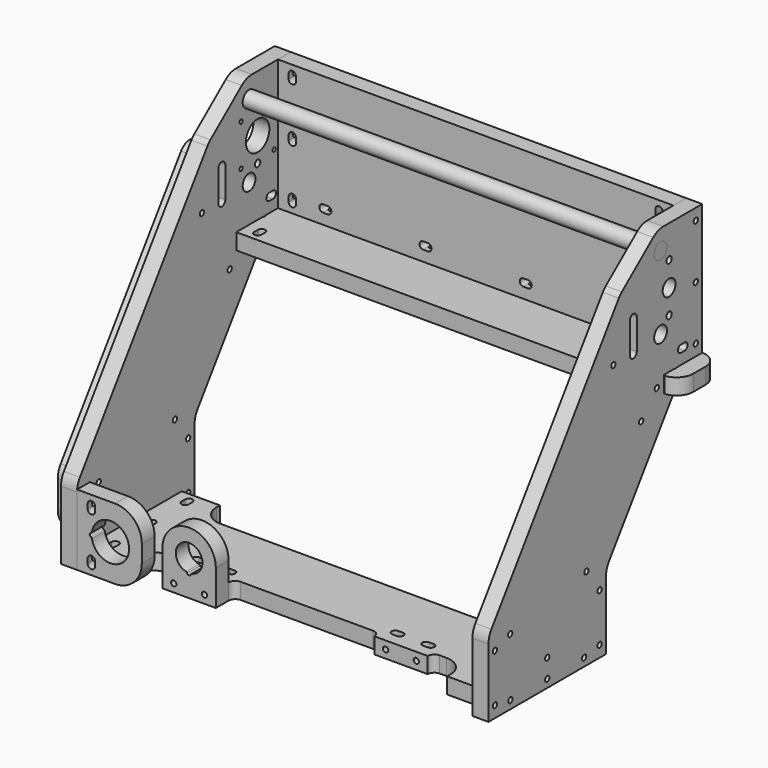
from build123d import *

# Parameters (mm, degrees)
F0_W      = 296
F0_H      = 98
F1_DEPTH  = 12
F3_DEPTH  = 12
F4_R      = 5.975
F4_R_2    = 11
F4_R_3    = 1.5
F4_R_4    = 2.5
F5_DEPTH  = 25
F6_R      = 6
F7_DEPTH  = 320
F8_R      = 5.975
F8_R_2    = 2.5
F8_R_3    = 6
F9_DEPTH  = 12
F11_DEPTH = 12
F13_DEPTH = 12
F15_DEPTH = 25
F17_DEPTH = 12
F18_R     = 2
F19_DEPTH = 21
F21_DEPTH = 25
F22_R     = 2
F23_DEPTH = 21
F24_SIZE2 = 35
F24_SIZE  = 15
F25_SIZE2 = 15
F25_SIZE  = 35
F26_R     = 15
F26_2_R   = 15
F27_R     = 2
F28_DEPTH = 21
F30_DEPTH = 12
F31_R     = 15
F32_R     = 2
F33_DEPTH = 344.501
F34_R     = 2
F35_DEPTH = 12
F36_R     = 2
F37_DEPTH = 10
F38_R     = 1


with BuildPart() as f1:
    # F0 (on Front) → F1 (new body)
    with BuildSketch(Plane.XZ):
        with Locations((0, 49)):
            Rectangle(F0_W, F0_H)
    extrude(amount=F1_DEPTH)


with BuildPart() as f3:
    # F2 (on face) → F3 (new body)
    with BuildSketch(Plane(origin=(-148, 0, 0), x_dir=(0, -1, 0), z_dir=(-1, 0, 0))):
        Polygon((56.6998794181, 98), (0, 98), (0, 0), (24, 0), (24, -12), (90, -105.919646507), (90, -162), (200, -162), (200, -105.919646507), align=None)
    extrude(amount=F3_DEPTH)

    # F4 (on face) → F5 (cut)
    with BuildSketch(Plane.YZ.offset(-148)):
        with Locations((-39, 28)):
            Circle(F4_R)
        with Locations((-39, 83)):
            Circle(F4_R)
        with Locations((-31, 55.5)):
            Circle(F4_R_2)
        with Locations((-46.5, 71)):
            Circle(F4_R_3)
        with Locations((-46.5, 40)):
            Circle(F4_R_3)
        with Locations((-15.5, 40)):
            Circle(F4_R_3)
        with Locations((-15.5, 71)):
            Circle(F4_R_3)
        with Locations((-31, 73.75)):
            Circle(F4_R_4)
        with Locations((-31, 37.25)):
            Circle(F4_R_4)
    extrude(amount=-F5_DEPTH, mode=Mode.SUBTRACT)


with BuildPart() as f7:
    # F6 (on face) → F7 (new body)
    with BuildSketch(Plane(origin=(-160, 0, 0), x_dir=(0, -1, 0), z_dir=(-1, 0, 0))):
        with Locations((39, 83)):
            Circle(F6_R)
    extrude(amount=-F7_DEPTH)


with BuildPart() as f9:
    # F8 (on face) → F9 (new body)
    with BuildSketch(Plane.YZ.offset(148)):
        Polygon((-90, -162), (-90, -105.919646507), (-24, -12), (-24, 0), (0, 0), (0, 98), (-56.6998794181, 98), (-200, -105.919646507), (-200, -162), align=None)
        with Locations((-39, 28)):
            Circle(F8_R, mode=Mode.SUBTRACT)
        with Locations((-31, 37.25)):
            Circle(F8_R_2, mode=Mode.SUBTRACT)
        with Locations((-31, 55.5)):
            Circle(F8_R_3, mode=Mode.SUBTRACT)
        with Locations((-31, 73.75)):
            Circle(F8_R_2, mode=Mode.SUBTRACT)
        with Locations((-39, 83)):
            Circle(F8_R, mode=Mode.SUBTRACT)
    extrude(amount=F9_DEPTH)


with BuildPart() as f11:
    # F10 (on face) → F11 (new body)
    with BuildSketch(Plane.XZ.offset(200)):
        with BuildLine():
            Line((-148, -109), (-148, -162))
            Line((-148, -162), (-119.5, -162))
            ThreePointArc((-119.5, -162), (-105.3578643763, -156.1421356237), (-99.5, -142))
            Line((-99.5, -142), (-99.5, -129))
            ThreePointArc((-99.5, -129), (-105.3578643763, -114.8578643763), (-119.5, -109))
            Line((-119.5, -109), (-148, -109))
        make_face()
        with BuildLine():
            ThreePointArc((-136.7997078464, -133.2934895528), (-109.025, -135.5), (-136.7997078464, -137.7065104472))
            ThreePointArc((-136.7997078464, -137.7065104472), (-137.0218329376, -137.2207641448), (-137.4622987478, -136.9186401695))
            ThreePointArc((-137.4622987478, -136.9186401695), (-138.475, -135.5), (-137.4622987478, -134.0813598305))
            ThreePointArc((-137.4622987478, -134.0813598305), (-137.0218329376, -133.7792358552), (-136.7997078464, -133.2934895528))
        make_face(mode=Mode.SUBTRACT)
    extrude(amount=-F11_DEPTH)

    # F14 (on face) → F15 (cut)
    with BuildSketch(Plane.XZ.offset(200)):
        with BuildLine():
            ThreePointArc((-134.5, -115.75), (-137.25, -113), (-140, -115.75))
            Line((-140, -115.75), (-140, -119.25))
            ThreePointArc((-140, -119.25), (-137.25, -122), (-134.5, -119.25))
            Line((-134.5, -119.25), (-134.5, -115.75))
        make_face()
        with BuildLine():
            ThreePointArc((-140, -155.25), (-137.25, -158), (-134.5, -155.25))
            Line((-134.5, -155.25), (-134.5, -151.75))
            ThreePointArc((-134.5, -151.75), (-137.25, -149), (-140, -151.75))
            Line((-140, -151.75), (-140, -155.25))
        make_face()
    extrude(amount=-F15_DEPTH, mode=Mode.SUBTRACT)


with BuildPart() as f13:
    # F12 (on face) → F13 (new body)
    with BuildSketch(Plane(origin=(0, 0, -162), x_dir=(1, 0, 0), z_dir=(0, 0, -1))):
        with BuildLine():
            Line((-99.5, 170), (-104.5, 170))
            ThreePointArc((-104.5, 170), (-115.1066017178, 174.3933982822), (-119.5, 185))
            Line((-119.5, 185), (-119.5, 188))
            Line((-119.5, 188), (-148, 188))
            Line((-148, 188), (-148, 145))
            Line((-148, 145), (-148, 102))
            Line((-148, 102), (-119.5, 102))
            Line((-119.5, 102), (-119.5, 105))
            ThreePointArc((-119.5, 105), (-115.1066017178, 115.6066017178), (-104.5, 120))
            Line((-104.5, 120), (0, 120))
            Line((0, 120), (104.5, 120))
            ThreePointArc((104.5, 120), (115.1066017178, 115.6066017178), (119.5, 105))
            Line((119.5, 105), (119.5, 102))
            Line((119.5, 102), (148, 102))
            Line((148, 102), (148, 145))
            Line((148, 145), (148, 188))
            Line((148, 188), (119.5, 188))
            Line((119.5, 188), (119.5, 185))
            ThreePointArc((119.5, 185), (115.1066017178, 174.3933982822), (104.5, 170))
            Line((104.5, 170), (99.5, 170))
            ThreePointArc((99.5, 170), (95.9644660941, 171.4644660941), (94.5, 175))
            Line((94.5, 175), (54.5, 175))
            ThreePointArc((54.5, 175), (53.0355339059, 171.4644660941), (49.5, 170))
            Line((49.5, 170), (0, 170))
            Line((0, 170), (-49.5, 170))
            ThreePointArc((-49.5, 170), (-53.0355339059, 171.4644660941), (-54.5, 175))
            Line((-54.5, 175), (-94.5, 175))
            ThreePointArc((-94.5, 175), (-95.9644660941, 171.4644660941), (-99.5, 170))
        make_face()
        with BuildLine():
            Line((-134.5, 112.25), (-134.5, 108.75))
            ThreePointArc((-134.5, 108.75), (-137.25, 106), (-140, 108.75))
            Line((-140, 108.75), (-140, 112.25))
            ThreePointArc((-140, 112.25), (-137.25, 115), (-134.5, 112.25))
        make_face(mode=Mode.SUBTRACT)
        with BuildLine():
            ThreePointArc((140, 108.75), (137.25, 106), (134.5, 108.75))
            Line((134.5, 108.75), (134.5, 112.25))
            ThreePointArc((134.5, 112.25), (137.25, 115), (140, 112.25))
            Line((140, 112.25), (140, 108.75))
        make_face(mode=Mode.SUBTRACT)
        with BuildLine():
            Line((-134.5, 146.75), (-134.5, 143.25))
            ThreePointArc((-134.5, 143.25), (-137.25, 140.5), (-140, 143.25))
            Line((-140, 143.25), (-140, 146.75))
            ThreePointArc((-140, 146.75), (-137.25, 149.5), (-134.5, 146.75))
        make_face(mode=Mode.SUBTRACT)
        with BuildLine():
            Line((-84.25, 161), (-87.75, 161))
            ThreePointArc((-87.75, 161), (-90.5, 163.75), (-87.75, 166.5))
            Line((-87.75, 166.5), (-84.25, 166.5))
            ThreePointArc((-84.25, 166.5), (-81.5, 163.75), (-84.25, 161))
        make_face(mode=Mode.SUBTRACT)
        with BuildLine():
            ThreePointArc((-64.75, 161), (-67.5, 163.75), (-64.75, 166.5))
            Line((-64.75, 166.5), (-61.25, 166.5))
            ThreePointArc((-61.25, 166.5), (-58.5, 163.75), (-61.25, 161))
            Line((-61.25, 161), (-64.75, 161))
        make_face(mode=Mode.SUBTRACT)
        with BuildLine():
            ThreePointArc((-134.5, 177.75), (-137.25, 175), (-140, 177.75))
            Line((-140, 177.75), (-140, 181.25))
            ThreePointArc((-140, 181.25), (-137.25, 184), (-134.5, 181.25))
            Line((-134.5, 181.25), (-134.5, 177.75))
        make_face(mode=Mode.SUBTRACT)
        with BuildLine():
            ThreePointArc((61.25, 161), (58.5, 163.75), (61.25, 166.5))
            Line((61.25, 166.5), (64.75, 166.5))
            ThreePointArc((64.75, 166.5), (67.5, 163.75), (64.75, 161))
            Line((64.75, 161), (61.25, 161))
        make_face(mode=Mode.SUBTRACT)
        with BuildLine():
            Line((140, 146.75), (140, 143.25))
            ThreePointArc((140, 143.25), (137.25, 140.5), (134.5, 143.25))
            Line((134.5, 143.25), (134.5, 146.75))
            ThreePointArc((134.5, 146.75), (137.25, 149.5), (140, 146.75))
        make_face(mode=Mode.SUBTRACT)
        with BuildLine():
            Line((84.25, 166.5), (87.75, 166.5))
            ThreePointArc((87.75, 166.5), (90.5, 163.75), (87.75, 161))
            Line((87.75, 161), (84.25, 161))
            ThreePointArc((84.25, 161), (81.5, 163.75), (84.25, 166.5))
        make_face(mode=Mode.SUBTRACT)
        with BuildLine():
            ThreePointArc((134.5, 181.25), (137.25, 184), (140, 181.25))
            Line((140, 181.25), (140, 177.75))
            ThreePointArc((140, 177.75), (137.25, 175), (134.5, 177.75))
            Line((134.5, 177.75), (134.5, 181.25))
        make_face(mode=Mode.SUBTRACT)
    extrude(amount=-F13_DEPTH)


with BuildPart() as f17:
    # F16 (on face) → F17 (new body)
    with BuildSketch(Plane(origin=(0, 0, 0), x_dir=(1, 0, 0), z_dir=(0, 0, -1))):
        with BuildLine():
            ThreePointArc((-172.5, 12.5), (-168.8388347648, 3.6611652352), (-160, 0))
            Line((-160, 0), (160, 0))
            ThreePointArc((160, 0), (168.8388347648, 3.6611652352), (172.5, 12.5))
            Line((172.5, 12.5), (172.5, 24))
            ThreePointArc((172.5, 24), (169.2151222597, 32.4457990587), (161.0869565217, 36.452651345))
            ThreePointArc((161.0869565217, 36.452651345), (160.3243360753, 36.1936490182), (160, 35.4564392374))
            Line((160, 35.4564392374), (160, 26.1213203436))
            ThreePointArc((160, 26.1213203436), (160, 24), (157.8786796564, 24))
            Line((157.8786796564, 24), (150.1213203436, 24))
            ThreePointArc((150.1213203436, 24), (148, 24), (148, 26.1213203436))
            Line((148, 26.1213203436), (148, 51))
            Line((148, 51), (0, 51))
            Line((0, 51), (-148, 51))
            Line((-148, 51), (-148, 26.1213203436))
            ThreePointArc((-148, 26.1213203436), (-148, 24), (-150.1213203436, 24))
            Line((-150.1213203436, 24), (-157.8786796564, 24))
            ThreePointArc((-157.8786796564, 24), (-160, 24), (-160, 26.1213203436))
            Line((-160, 26.1213203436), (-160, 35.4564392374))
            ThreePointArc((-160, 35.4564392374), (-160.3243360753, 36.1936490182), (-161.0869565217, 36.452651345))
            ThreePointArc((-161.0869565217, 36.452651345), (-169.2151222597, 32.4457990587), (-172.5, 24))
            Line((-172.5, 24), (-172.5, 12.5))
        make_face()
    extrude(amount=F17_DEPTH)


with BuildPart() as f19_tool:
    # F18 (on face) → F19 (new body)
    with BuildSketch(Plane(origin=(-160, 0, 0), x_dir=(0, -1, 0), z_dir=(-1, 0, 0))):
        with Locations((194, -153.5)):
            Circle(F18_R)
        with Locations((194, -117.5)):
            Circle(F18_R)
        with Locations((96, -117.5)):
            Circle(F18_R)
        with Locations((96, -153.5)):
            Circle(F18_R)
        with Locations((179.5, -156)):
            Circle(F18_R)
        with Locations((145, -156)):
            Circle(F18_R)
        with Locations((110.5, -156)):
            Circle(F18_R)
        with Locations((6, 89.5)):
            Circle(F18_R)
        with Locations((6, 49)):
            Circle(F18_R)
        with Locations((6, 8.5)):
            Circle(F18_R)
        with BuildLine():
            ThreePointArc((16.5, 13.5), (13.75, 10.75), (16.5, 8))
            Line((16.5, 8), (20, 8))
            ThreePointArc((20, 8), (22.75, 10.75), (20, 13.5))
            Line((20, 13.5), (16.5, 13.5))
        make_face()
        with Locations((42.5, -6)):
            Circle(F18_R)
    extrude(amount=-F19_DEPTH)


with BuildPart() as f1_1:
    add(f1.part)

    # F19: cut by f19_tool
    add(f19_tool.part, mode=Mode.SUBTRACT)

    # F20 (on face) → F21 (cut)
    with BuildSketch(Plane(origin=(0, 0, 0), x_dir=(-1, 0, 0), z_dir=(0, 1, 0))):
        with BuildLine():
            ThreePointArc((140, 91.25), (137.25, 94), (134.5, 91.25))
            Line((134.5, 91.25), (134.5, 87.75))
            ThreePointArc((134.5, 87.75), (137.25, 85), (140, 87.75))
            Line((140, 87.75), (140, 91.25))
        make_face()
        with BuildLine():
            ThreePointArc((140, 50.75), (137.25, 53.5), (134.5, 50.75))
            Line((134.5, 50.75), (134.5, 47.25))
            ThreePointArc((134.5, 47.25), (137.25, 44.5), (140, 47.25))
            Line((140, 47.25), (140, 50.75))
        make_face()
        with BuildLine():
            ThreePointArc((140, 10.25), (137.25, 13), (134.5, 10.25))
            Line((134.5, 10.25), (134.5, 6.75))
            ThreePointArc((134.5, 6.75), (137.25, 4), (140, 6.75))
            Line((140, 6.75), (140, 10.25))
        make_face()
        with BuildLine():
            Line((-134.5, 87.75), (-134.5, 91.25))
            ThreePointArc((-134.5, 91.25), (-137.25, 94), (-140, 91.25))
            Line((-140, 91.25), (-140, 87.75))
            ThreePointArc((-140, 87.75), (-137.25, 85), (-134.5, 87.75))
        make_face()
        with BuildLine():
            Line((-134.5, 47.25), (-134.5, 50.75))
            ThreePointArc((-134.5, 50.75), (-137.25, 53.5), (-140, 50.75))
            Line((-140, 50.75), (-140, 47.25))
            ThreePointArc((-140, 47.25), (-137.25, 44.5), (-134.5, 47.25))
        make_face()
        with BuildLine():
            ThreePointArc((-134.5, 10.25), (-137.25, 13), (-140, 10.25))
            Line((-140, 10.25), (-140, 6.75))
            ThreePointArc((-140, 6.75), (-137.25, 4), (-134.5, 6.75))
            Line((-134.5, 6.75), (-134.5, 10.25))
        make_face()
        with BuildLine():
            ThreePointArc((-110.75, 8), (-108, 10.75), (-110.75, 13.5))
            Line((-110.75, 13.5), (-114.25, 13.5))
            ThreePointArc((-114.25, 13.5), (-117, 10.75), (-114.25, 8))
            Line((-114.25, 8), (-110.75, 8))
        make_face()
        with BuildLine():
            ThreePointArc((-39.25, 13.5), (-42, 10.75), (-39.25, 8))
            Line((-39.25, 8), (-35.75, 8))
            ThreePointArc((-35.75, 8), (-33, 10.75), (-35.75, 13.5))
            Line((-35.75, 13.5), (-39.25, 13.5))
        make_face()
        with BuildLine():
            ThreePointArc((35.75, 13.5), (33, 10.75), (35.75, 8))
            Line((35.75, 8), (39.25, 8))
            ThreePointArc((39.25, 8), (42, 10.75), (39.25, 13.5))
            Line((39.25, 13.5), (35.75, 13.5))
        make_face()
        with BuildLine():
            ThreePointArc((110.75, 13.5), (108, 10.75), (110.75, 8))
            Line((110.75, 8), (114.25, 8))
            ThreePointArc((114.25, 8), (117, 10.75), (114.25, 13.5))
            Line((114.25, 13.5), (110.75, 13.5))
        make_face()
    extrude(amount=-F21_DEPTH, mode=Mode.SUBTRACT)


with BuildPart() as f3_1:
    add(f3.part)

    # F19: cut by f19_tool
    add(f19_tool.part, mode=Mode.SUBTRACT)

    # F24
    f24_edges = [f3_1.edges().sort_by_distance(p)[0] for p in [
        (-154, -56.699879, 98),
    ]]
    f24_side = f3_1.faces().sort_by_distance((-154, -28.34994, 98))[0]
    chamfer(f24_edges, length=F24_SIZE, length2=F24_SIZE2, reference=f24_side)

    # F26
    f26_edges = [f3_1.edges().sort_by_distance(p)[0] for p in [
        (-154, -200, -105.919647),
        (-154, -90, -105.919647),
        (-154, -41.699879, 98),
        (-154, -76.823465, 69.363636),
    ]]
    fillet(f26_edges, radius=F26_R)


with BuildPart() as f11_1:
    add(f11.part)

    # F19: cut by f19_tool
    add(f19_tool.part, mode=Mode.SUBTRACT)


with BuildPart() as f13_1:
    add(f13.part)

    # F19: cut by f19_tool
    add(f19_tool.part, mode=Mode.SUBTRACT)


with BuildPart() as f17_1:
    add(f17.part)

    # F19: cut by f19_tool
    add(f19_tool.part, mode=Mode.SUBTRACT)


with BuildPart() as f23_tool:
    # F22 (on face) → F23 (new body)
    with BuildSketch(Plane.YZ.offset(160)):
        with Locations((-96, -117.5)):
            Circle(F22_R)
        with Locations((-96, -153.5)):
            Circle(F22_R)
        with Locations((-110.5, -156)):
            Circle(F22_R)
        with Locations((-145, -156)):
            Circle(F22_R)
        with Locations((-179.5, -156)):
            Circle(F22_R)
        with Locations((-194, -153.5)):
            Circle(F22_R)
        with Locations((-194, -117.5)):
            Circle(F22_R)
        with Locations((-6, 8.5)):
            Circle(F22_R)
        with Locations((-6, 49)):
            Circle(F22_R)
        with Locations((-6, 89.5)):
            Circle(F22_R)
        with Locations((-42.5, -6)):
            Circle(F22_R)
        with BuildLine():
            Line((-20, 8), (-16.5, 8))
            ThreePointArc((-16.5, 8), (-13.75, 10.75), (-16.5, 13.5))
            Line((-16.5, 13.5), (-20, 13.5))
            ThreePointArc((-20, 13.5), (-22.75, 10.75), (-20, 8))
        make_face()
    extrude(amount=-F23_DEPTH)


with BuildPart() as f1_2:
    add(f1_1.part)

    # F23: cut by f23_tool
    add(f23_tool.part, mode=Mode.SUBTRACT)


with BuildPart() as f9_1:
    add(f9.part)

    # F23: cut by f23_tool
    add(f23_tool.part, mode=Mode.SUBTRACT)

    # F25
    f25_edges = [f9_1.edges().sort_by_distance(p)[0] for p in [
        (154, -56.699879, 98),
    ]]
    f25_side = f9_1.faces().sort_by_distance((154, -128.34994, -3.959823))[0]
    chamfer(f25_edges, length=F25_SIZE, length2=F25_SIZE2, reference=f25_side)

    # F26#2
    f26_2_edges = [f9_1.edges().sort_by_distance(p)[0] for p in [
        (154, -200, -105.919647),
        (154, -90, -105.919647),
        (154, -41.699879, 98),
        (154, -76.823465, 69.363636),
    ]]
    fillet(f26_2_edges, radius=F26_2_R)


with BuildPart() as f13_2:
    add(f13_1.part)

    # F23: cut by f23_tool
    add(f23_tool.part, mode=Mode.SUBTRACT)

    # F36 (on face) → F37 (cut)
    with BuildSketch(Plane.XZ.offset(175)):
        with Locations((-86, -156)):
            Circle(F36_R)
        with Locations((-63, -156)):
            Circle(F36_R)
        with Locations((86, -156)):
            Circle(F36_R)
        with Locations((63, -156)):
            Circle(F36_R)
    extrude(amount=-F37_DEPTH, mode=Mode.SUBTRACT)


with BuildPart() as f17_2:
    add(f17_1.part)

    # F23: cut by f23_tool
    add(f23_tool.part, mode=Mode.SUBTRACT)


with BuildPart() as f28_tool:
    # F27 (on face) → F28 (new body)
    with BuildSketch(Plane(origin=(0, 0, -12), x_dir=(1, 0, 0), z_dir=(0, 0, -1))):
        with Locations((-154, 18.25)):
            Circle(F27_R)
        with BuildLine():
            ThreePointArc((-134.5, 44.25), (-137.25, 47), (-140, 44.25))
            Line((-140, 44.25), (-140, 40.75))
            ThreePointArc((-140, 40.75), (-137.25, 38), (-134.5, 40.75))
            Line((-134.5, 40.75), (-134.5, 44.25))
        make_face()
        with Locations((154, 18.25)):
            Circle(F27_R)
        with BuildLine():
            Line((140, 40.75), (140, 44.25))
            ThreePointArc((140, 44.25), (137.25, 47), (134.5, 44.25))
            Line((134.5, 44.25), (134.5, 40.75))
            ThreePointArc((134.5, 40.75), (137.25, 38), (140, 40.75))
        make_face()
        with Locations((-112.5, 6)):
            Circle(F27_R)
        with Locations((-37.5, 6)):
            Circle(F27_R)
        with Locations((37.5, 6)):
            Circle(F27_R)
        with Locations((112.5, 6)):
            Circle(F27_R)
    extrude(amount=-F28_DEPTH)


with BuildPart() as f1_3:
    add(f1_2.part)

    # F28: cut by f28_tool
    add(f28_tool.part, mode=Mode.SUBTRACT)


with BuildPart() as f3_2:
    add(f3_1.part)

    # F28: cut by f28_tool
    add(f28_tool.part, mode=Mode.SUBTRACT)


with BuildPart() as f9_2:
    add(f9_1.part)

    # F28: cut by f28_tool
    add(f28_tool.part, mode=Mode.SUBTRACT)


with BuildPart() as f17_3:
    add(f17_2.part)

    # F28: cut by f28_tool
    add(f28_tool.part, mode=Mode.SUBTRACT)

    # F38
    f38_edges = [f17_3.edges().sort_by_distance(p)[0] for p in [
        (160, -26.12132, -6),
        (157.87868, -24, -6),
        (150.12132, -24, -6),
        (148, -26.12132, -6),
        (-160, -26.12132, -6),
        (-157.87868, -24, -6),
        (-150.12132, -24, -6),
        (-148, -26.12132, -6),
    ]]
    fillet(f38_edges, radius=F38_R)


with BuildPart() as f30:
    # F29 (on face) → F30 (new body)
    with BuildSketch(Plane(origin=(-160, 0, 0), x_dir=(0, -1, 0), z_dir=(-1, 0, 0))):
        with BuildLine():
            Line((102, -150), (188, -150))
            Line((188, -150), (188, -114.4577961895))
            ThreePointArc((188, -114.4577961895), (187.3019388387, -109.9351260208), (185.2727272727, -105.8334025708))
            Line((185.2727272727, -105.8334025708), (72.6818181818, 54.3862698795))
            ThreePointArc((72.6818181818, 54.3862698795), (61.4848865542, 58.1713000262), (54.5, 48.6366741337))
            Line((54.5, 48.6366741337), (54.5, -6))
            ThreePointArc((54.5, -6), (51.1181785773, -14.3502693376), (42.878833665, -17.9940187199))
            Line((42.878833665, -17.9940187199), (97.0909090909, -95.1391544837))
            ThreePointArc((97.0909090909, -95.1391544837), (100.7434899096, -102.5222566937), (102, -110.6630629973))
            Line((102, -110.6630629973), (102, -150))
        make_face()
    extrude(amount=F30_DEPTH)

    # F31
    f31_edges = [f30.edges().sort_by_distance(p)[0] for p in [
        (-166, -42.878834, -17.994019),
        (-166, -102, -150),
        (-166, -188, -150),
    ]]
    fillet(f31_edges, radius=F31_R)


with BuildPart() as f33_tool:
    # F32 (on face) → F33 (new body, through all)
    with BuildSketch(Plane(origin=(-172, 0, 0), x_dir=(0, -1, 0), z_dir=(-1, 0, 0))):
        with BuildLine():
            ThreePointArc((67.75, 48.6366741337), (64.5, 51.8866741337), (61.25, 48.6366741337))
            Line((61.25, 48.6366741337), (61.25, 25.6366741337))
            ThreePointArc((61.25, 25.6366741337), (64.5, 22.3866741337), (67.75, 25.6366741337))
            Line((67.75, 25.6366741337), (67.75, 48.6366741337))
        make_face()
        with Locations((57.1357050333, -22.0525141937)):
            Circle(F32_R)
        with Locations((108.3711906236, -100.110165937)):
            Circle(F32_R)
        with Locations((145, -142)):
            Circle(F32_R)
        with Locations((179.6742381247, -112.3472167774)):
            Circle(F32_R)
        with Locations((83.1071969297, 25.6366741337)):
            Circle(F32_R)
    extrude(amount=-F33_DEPTH)


with BuildPart() as f3_3:
    add(f3_2.part)

    # F33: cut by f33_tool
    add(f33_tool.part, mode=Mode.SUBTRACT)


with BuildPart() as f9_3:
    add(f9_2.part)

    # F33: cut by f33_tool
    add(f33_tool.part, mode=Mode.SUBTRACT)


with BuildPart() as f30_1:
    add(f30.part)

    # F33: cut by f33_tool
    add(f33_tool.part, mode=Mode.SUBTRACT)


with BuildPart() as f35:
    # F34 (on face) → F35 (new body)
    with BuildSketch(Plane.XZ.offset(175)):
        with BuildLine():
            Line((-94.5, -135.5), (-94.5, -162))
            Line((-94.5, -162), (-54.5, -162))
            Line((-54.5, -162), (-54.5, -135.5))
            ThreePointArc((-54.5, -135.5), (-74.5, -115.5), (-94.5, -135.5))
        make_face()
        with Locations((-86, -156)):
            Circle(F34_R, mode=Mode.SUBTRACT)
        with Locations((-63, -156)):
            Circle(F34_R, mode=Mode.SUBTRACT)
        with BuildLine():
            ThreePointArc((-76.6712745198, -145.2358200456), (-74.5, -125.525), (-72.3287254802, -145.2358200456))
            ThreePointArc((-72.3287254802, -145.2358200456), (-72.7894094573, -145.4771083652), (-73.0666323095, -145.9171052632))
            ThreePointArc((-73.0666323095, -145.9171052632), (-74.5, -146.975), (-75.9333676905, -145.9171052632))
            ThreePointArc((-75.9333676905, -145.9171052632), (-76.2105905427, -145.4771083652), (-76.6712745198, -145.2358200456))
        make_face(mode=Mode.SUBTRACT)
    extrude(amount=F35_DEPTH)


solid = Compound([f7.part, f11_1.part, f13_2.part, f1_3.part, f17_3.part, f3_3.part, f9_3.part, f30_1.part, f35.part])
